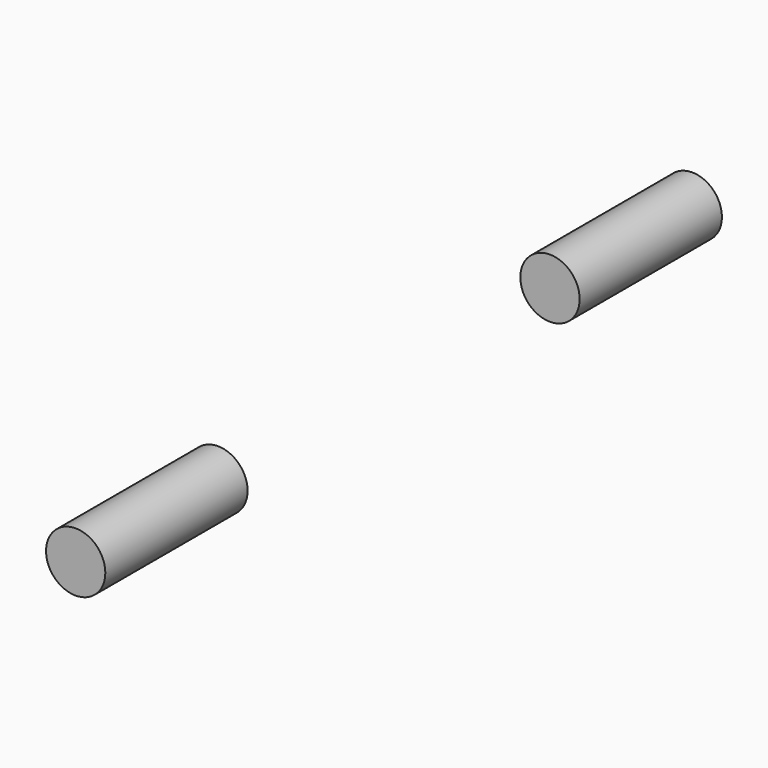
from build123d import *

# Parameters (mm, degrees)
CYLINDER003_R     = 0.5
CYLINDER003_DEPTH = 3
CYLINDER004_R     = 0.5
CYLINDER004_DEPTH = 3


with BuildPart() as cylinder003:
    # Cylinder003 → Cylinder003 (new body)
    with BuildSketch(Plane(origin=(0, -3.5, 2), x_dir=(1, 0, 0), z_dir=(0, -1, 0))):
        Circle(CYLINDER003_R)
    extrude(amount=CYLINDER003_DEPTH)


with BuildPart() as fusion001003:
    # Cylinder004 → Cylinder004 (new body)
    with BuildSketch(Plane(origin=(0, 6.5, 2), x_dir=(1, 0, 0), z_dir=(0, -1, 0))):
        Circle(CYLINDER004_R)
    extrude(amount=CYLINDER004_DEPTH)

    # Fusion001003: union Cylinder003
    add(cylinder003.part)


solid = fusion001003.part
